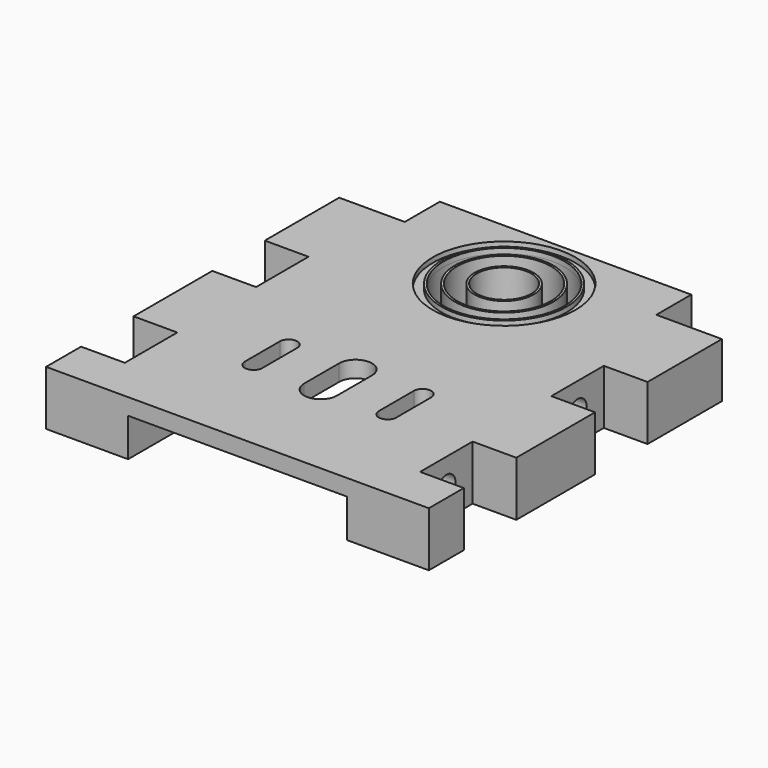
from build123d import *

# Parameters (mm, degrees)
PAD001_DEPTH    = 3.3
SKETCH_W        = 80
SKETCH_H        = 80
PAD_DEPTH       = 10
SKETCH001_R     = 11.05
POCKET_DEPTH    = 7
SKETCH002_R     = 5
POCKET001_DEPTH = 3.001
SKETCH003_R     = 13.05
POCKET002_DEPTH = 0.9
POCKET003_DEPTH = 7
POCKET004_DEPTH = 3.001
POCKET005_DEPTH = 10.001
SKETCH009_W     = 8
SKETCH009_H     = 12
SKETCH009_W_2   = 12
SKETCH009_H_2   = 8
POCKET008_DEPTH = 10.001
SKETCH010_R     = 2.1
POCKET009_DEPTH = 9
SKETCH011_R     = 2.1
POCKET010_DEPTH = 9
SKETCH012_R     = 2.1
POCKET011_DEPTH = 8.5
POCKET012_DEPTH = 2.55
POCKET013_DEPTH = 2.55
SKETCH017_R     = 5.4
SKETCH017_R_2   = 5
PAD002_DEPTH    = 7
SKETCH018_R     = 11.45
SKETCH018_R_2   = 11.05
PAD003_DEPTH    = 0.9
SKETCH019_R     = 9
SKETCH019_R_2   = 8.6
PAD004_DEPTH    = 7


with BuildPart() as pad001:
    # Sketch016 → Pad001 (new body)
    with BuildSketch(Plane.XZ.offset(-29)):
        Polygon((-25.475, 7.03516), (-29, 9.070319), (-32.525, 7.03516), (-32.525, 2.96484), (-32.525, 0), (-25.475, 0), align=None)
        Polygon((32.525, 7.03516), (29, 9.070319), (25.475, 7.03516), (25.475, 2.96484), (25.475, 0), (32.525, 0), align=None)
    extrude(amount=PAD001_DEPTH)


with BuildPart() as obj1:
    # Sketch → Pad (new body)
    with BuildSketch(Plane.XY):
        Rectangle(SKETCH_W, SKETCH_H)
    extrude(amount=PAD_DEPTH)

    # Sketch001 → Pocket (cut)
    with BuildSketch(Plane.XY.offset(10)):
        with Locations((0, 25.95)):
            Circle(SKETCH001_R)
    extrude(amount=-POCKET_DEPTH, mode=Mode.SUBTRACT)

    # Sketch002 → Pocket001 (cut, through all)
    with BuildSketch(Plane.XY.offset(3)):
        with Locations((0, 25.95)):
            Circle(SKETCH002_R)
    extrude(amount=-POCKET001_DEPTH, mode=Mode.SUBTRACT)

    # Sketch003 → Pocket002 (cut)
    with BuildSketch(Plane.XY.offset(10)):
        with Locations((0, 25.95)):
            Circle(SKETCH003_R)
    extrude(amount=-POCKET002_DEPTH, mode=Mode.SUBTRACT)

    # Sketch004 → Pocket003 (cut)
    with BuildSketch(Plane(origin=(0, 0, 0), x_dir=(1, 0, 0), z_dir=(0, 0, -1))):
        with BuildLine():
            ThreePointArc((-20, 10), (0, -10), (20, 10))
            Line((20, 40), (20, 10))
            Line((20, 40), (-20, 40))
            Line((-20, 40), (-20, 10))
        make_face()
    extrude(amount=-POCKET003_DEPTH, mode=Mode.SUBTRACT)

    # Sketch005 → Pocket004 (cut, through all)
    with BuildSketch(Plane(origin=(0, 0, 7), x_dir=(1, 0, 0), z_dir=(0, 0, -1))):
        with BuildLine():
            ThreePointArc((3, 16), (0, 19), (-3, 16))
            Line((-3, 16), (-3, 8))
            ThreePointArc((-3, 8), (0, 5), (3, 8))
            Line((3, 16), (3, 8))
        make_face()
        with BuildLine():
            ThreePointArc((13.85, 16), (12.25, 17.6), (10.65, 16))
            Line((10.65, 16), (10.65, 8))
            ThreePointArc((10.65, 8), (12.25, 6.4), (13.85, 8))
            Line((13.85, 16), (13.85, 8))
        make_face()
        with BuildLine():
            ThreePointArc((-10.65, 16), (-12.25, 17.6), (-13.85, 16))
            Line((-13.85, 16), (-13.85, 8))
            ThreePointArc((-13.85, 8), (-12.25, 6.4), (-10.65, 8))
            Line((-10.65, 16), (-10.65, 8))
        make_face()
    extrude(amount=-POCKET004_DEPTH, mode=Mode.SUBTRACT)

    # Sketch006 → Pocket005 (cut, through all)
    with BuildSketch(Plane.XY.offset(10)):
        Polygon((-40, 40), (-35, 40), (-35, -35), (35, -35), (35, 40), (40, 40), (40, -40), (35, -40), (-35, -40), (-40, -40), align=None)
    extrude(amount=-POCKET005_DEPTH, mode=Mode.SUBTRACT)

    # Sketch009 → Pocket008 (cut, through all)
    with BuildSketch(Plane.XY.offset(10)):
        with Locations((-31, 9)):
            Rectangle(SKETCH009_W, SKETCH009_H)
        with Locations((31, 9)):
            Rectangle(SKETCH009_W, SKETCH009_H)
        with Locations((-31, -21)):
            Rectangle(SKETCH009_W, SKETCH009_H)
        with Locations((31, -21)):
            Rectangle(SKETCH009_W, SKETCH009_H)
        with Locations((-29, 36)):
            Rectangle(SKETCH009_W_2, SKETCH009_H_2)
        with Locations((29, 36)):
            Rectangle(SKETCH009_W_2, SKETCH009_H_2)
    extrude(amount=-POCKET008_DEPTH, mode=Mode.SUBTRACT)

    # Sketch010 → Pocket009 (cut)
    with BuildSketch(Plane(origin=(-27, 0, 0), x_dir=(0, -1, 0), z_dir=(-1, 0, 0))):
        with Locations((-9, 5)):
            Circle(SKETCH010_R)
        with Locations((21, 5)):
            Circle(SKETCH010_R)
    extrude(amount=-POCKET009_DEPTH, mode=Mode.SUBTRACT)

    # Sketch011 → Pocket010 (cut)
    with BuildSketch(Plane.YZ.offset(27)):
        with Locations((-21, 5)):
            Circle(SKETCH011_R)
        with Locations((9, 5)):
            Circle(SKETCH011_R)
    extrude(amount=-POCKET010_DEPTH, mode=Mode.SUBTRACT)

    # Sketch012 → Pocket011 (cut)
    with BuildSketch(Plane(origin=(0, 32, 0), x_dir=(-1, 0, 0), z_dir=(0, 1, 0))):
        with Locations((-29, 5)):
            Circle(SKETCH012_R)
        with Locations((29, 5)):
            Circle(SKETCH012_R)
    extrude(amount=-POCKET011_DEPTH, mode=Mode.SUBTRACT)

    # Sketch013 → Pocket012 (cut, symmetric)
    with BuildSketch(Plane(origin=(20, 0, 0), x_dir=(0, -1, 0), z_dir=(-1, 0, 0))):
        Polygon((-5.475, 7.03516), (-9, 9.070319), (-12.525, 7.03516), (-12.525, 2.96484), (-12.525, 0), (-5.475, 0), align=None)
        Polygon((21, 9.070319), (17.475, 7.03516), (17.475, 2.96484), (17.475, 0), (24.525, 0), (24.525, 2.96484), (24.525, 7.03516), align=None)
    extrude(amount=POCKET012_DEPTH, both=True, mode=Mode.SUBTRACT)

    # Sketch014 → Pocket013 (cut, symmetric)
    with BuildSketch(Plane.YZ.offset(-20)):
        Polygon((-17.475, 7.03516), (-21, 9.070319), (-24.525, 7.03516), (-24.525, 2.96484), (-24.525, 0), (-17.475, 0), align=None)
        Polygon((12.525, 7.03516), (9, 9.070319), (5.475, 7.03516), (5.475, 2.96484), (5.475, 0), (12.525, 0), align=None)
    extrude(amount=POCKET013_DEPTH, both=True, mode=Mode.SUBTRACT)

    # Cut: cut Pad001
    add(pad001.part, mode=Mode.SUBTRACT)

    # Sketch017 → Pad002 (new body)
    with BuildSketch(Plane.XY.offset(3)):
        with Locations((0, 25.95)):
            Circle(SKETCH017_R)
        with Locations((0, 25.95)):
            Circle(SKETCH017_R_2, mode=Mode.SUBTRACT)
    extrude(amount=PAD002_DEPTH)

    # Sketch018 → Pad003 (new body)
    with BuildSketch(Plane.XY.offset(9.1)):
        with Locations((0, 25.95)):
            Circle(SKETCH018_R)
        with Locations((0, 25.95)):
            Circle(SKETCH018_R_2, mode=Mode.SUBTRACT)
    extrude(amount=PAD003_DEPTH)

    # Sketch019 → Pad004 (new body)
    with BuildSketch(Plane.XY.offset(3)):
        with Locations((0, 25.95)):
            Circle(SKETCH019_R)
        with Locations((-0.000162, 25.950293)):
            Circle(SKETCH019_R_2, mode=Mode.SUBTRACT)
    extrude(amount=PAD004_DEPTH)


solid = obj1.part
